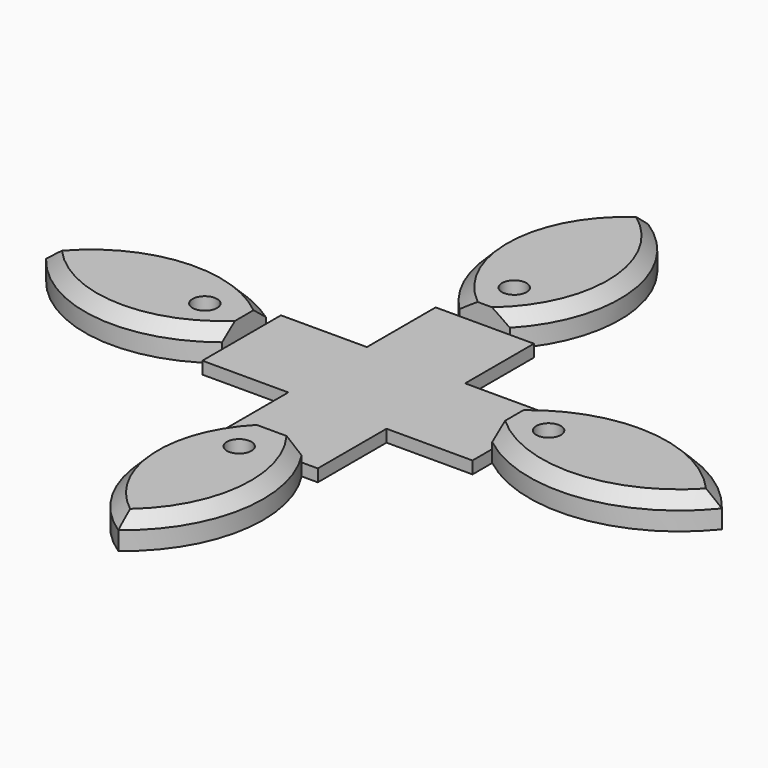
from build123d import *

# Parameters (mm, degrees)
F0_W     = 8
F0_H     = 8
F0_W_2   = 7
F0_H_2   = 7
F1_DEPTH = 1
F3_DEPTH = 2.5
F4_R     = 1
F5_DEPTH = 2.501
F6_SIZE  = 1


with BuildPart() as f1:
    # F0 (on Top) → F1 (new body)
    with BuildSketch(Plane.XY):
        Rectangle(F0_W, F0_H)
        with Locations((-7.5, 0)):
            Rectangle(F0_W_2, F0_H)
        with Locations((0, 7.5)):
            Rectangle(F0_W, F0_H_2)
        with Locations((0, -7.5)):
            Rectangle(F0_W, F0_H_2)
        with Locations((7.5, 0)):
            Rectangle(F0_W_2, F0_H)
    extrude(amount=F1_DEPTH)

    # F2 (on Top) → F3 (join)
    with BuildSketch(Plane.XY):
        with BuildLine():
            ThreePointArc((2.036100952, 11), (4.945464062, 19.7962570079), (0, 27.630854398))
            ThreePointArc((0, 27.630854398), (-5.0783073922, 19.8178102809), (-2.0651551895, 11))
            Line((-2.0651551895, 11), (2.036100952, 11))
        make_face()
        with BuildLine():
            Line((-11, -1.9892101258), (-11, 2.4604453852))
            ThreePointArc((-11, 2.4604453852), (-19.4622945933, 4.4658207731), (-26.9247610122, 0))
            ThreePointArc((-26.9247610122, 0), (-19.3807111434, -4.3435802853), (-11, -1.9892101258))
        make_face()
        with BuildLine():
            Line((2.6823603006, -11), (-2.3196401929, -11))
            ThreePointArc((-2.3196401929, -11), (-4.574812793, -19.1721128853), (0, -26.3093616813))
            ThreePointArc((0, -26.3093616813), (4.36279709, -19.1840997342), (2.6823603006, -11))
        make_face()
        with BuildLine():
            ThreePointArc((11, -1.9892101258), (19.9655151881, -4.5182315612), (28.1118024141, 0))
            ThreePointArc((28.1118024141, 0), (20.0578865698, 4.7214094483), (11, 2.4604453852))
            Line((11, 2.4604453852), (11, -1.9892101258))
        make_face()
    extrude(amount=F3_DEPTH)

    # F4 (on face) → F5 (cut, through all)
    with BuildSketch(Plane(origin=(0, 0, 0), x_dir=(1, 0, 0), z_dir=(0, 0, -1))):
        with Locations((0, 14)):
            Circle(F4_R)
        with Locations((-14, 0)):
            Circle(F4_R)
        with Locations((0, -14)):
            Circle(F4_R)
        with Locations((14, 0)):
            Circle(F4_R)
    extrude(amount=-F5_DEPTH, mode=Mode.SUBTRACT)

    # F6
    f6_edges = [f1.edges().sort_by_distance(p)[0] for p in [
        (-5.078307, 19.81781, 2.5),
        (4.945464, 19.796257, 2.5),
        (20.057887, 4.721409, 2.5),
        (4.362797, -19.1841, 2.5),
        (19.965515, -4.518232, 2.5),
        (-4.574813, -19.172113, 2.5),
        (-19.462295, 4.465821, 2.5),
        (-19.380711, -4.34358, 2.5),
    ]]
    chamfer(f6_edges, length=F6_SIZE)


solid = f1.part
